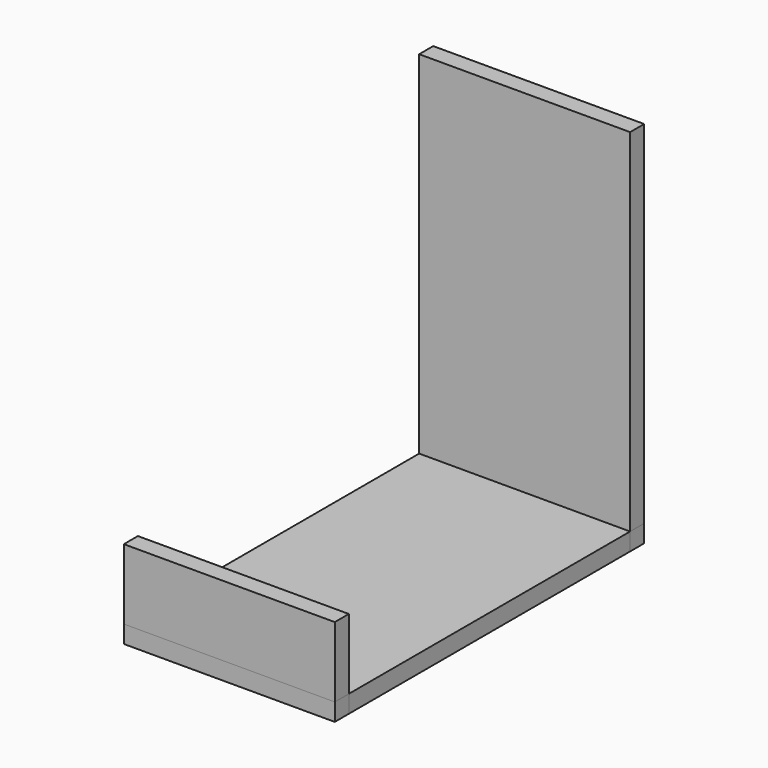
from build123d import *

# Parameters (mm, degrees)
F0_W     = 38.1
F0_H     = 63.5
F1_DEPTH = 3.175
F2_W     = 38.1
F2_H     = 3.175
F3_DEPTH = 63.5
F4_DEPTH = 3.175
F5_W     = 38.1
F5_H     = 3.175
F6_DEPTH = 12.7
F7_DEPTH = 3.175


with BuildPart() as f1:
    # F0 (on Top) → F1 (new body)
    with BuildSketch(Plane.XY):
        with Locations((-5.6869531982, 12.3874891467)):
            Rectangle(F0_W, F0_H)
    extrude(amount=F1_DEPTH)


with BuildPart() as f3:
    # F2 (on face) → F3 (new body)
    with BuildSketch(Plane.XY.offset(3.175)):
        with Locations((-5.6869531982, 45.7249891467)):
            Rectangle(F2_W, F2_H)
    extrude(amount=F3_DEPTH)


with BuildPart() as f4:
    # F4 (new): a face of the model
    f4_faces = [f1.part.faces().sort_by_distance(p)[0] for p in [
        (-5.6869531982, 44.1374891467, 1.5875),
    ]]
    extrude(f4_faces, amount=F4_DEPTH)


with BuildPart() as f6:
    # F5 (on face) → F6 (new body)
    with BuildSketch(Plane.XY.offset(3.175)):
        with Locations((-5.6869531982, -20.9500108533)):
            Rectangle(F5_W, F5_H)
    extrude(amount=F6_DEPTH)


with BuildPart() as f7:
    # F7 (new): a face of the model
    f7_faces = [f1.part.faces().sort_by_distance(p)[0] for p in [
        (-5.6869531982, -19.3625108533, 1.5875),
    ]]
    extrude(f7_faces, amount=F7_DEPTH)


solid = Compound([f1.part, f3.part, f4.part, f6.part, f7.part])
